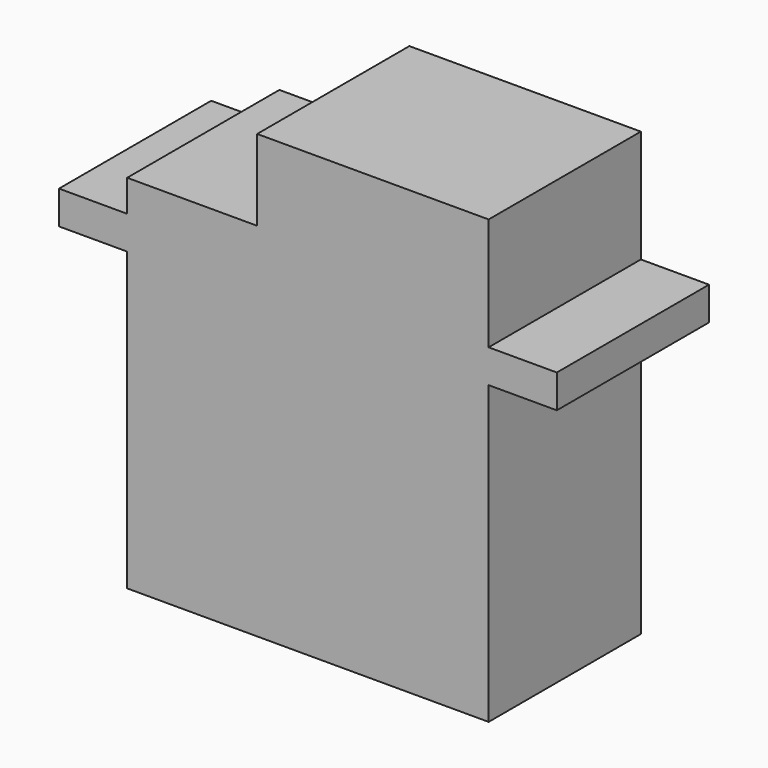
from build123d import *

# Parameters (mm, degrees)
F0_W     = 22.8
F0_H     = 18.7
F0_W_2   = 4.3
F0_H_2   = 2.1
F0_W_3   = 14.6
F0_H_3   = 5.1
F1_DEPTH = 12


with BuildPart() as f1:
    # F0 (on Front) → F1 (new body)
    with BuildSketch(Plane.XZ):
        with Locations((11.4, -9.35)):
            Rectangle(F0_W, F0_H)
        with Locations((-2.15, 1.05)):
            Rectangle(F0_W_2, F0_H_2)
        Polygon((8.2, 4.1), (0, 4.1), (0, 2.1), (22.8, 2.1), (22.8, 4.1), align=None)
        with Locations((11.4, 1.05)):
            Rectangle(F0_W, F0_H_2)
        with Locations((15.5, 6.65)):
            Rectangle(F0_W_3, F0_H_3)
        with Locations((24.95, 1.05)):
            Rectangle(F0_W_2, F0_H_2)
    extrude(amount=F1_DEPTH)


solid = f1.part
